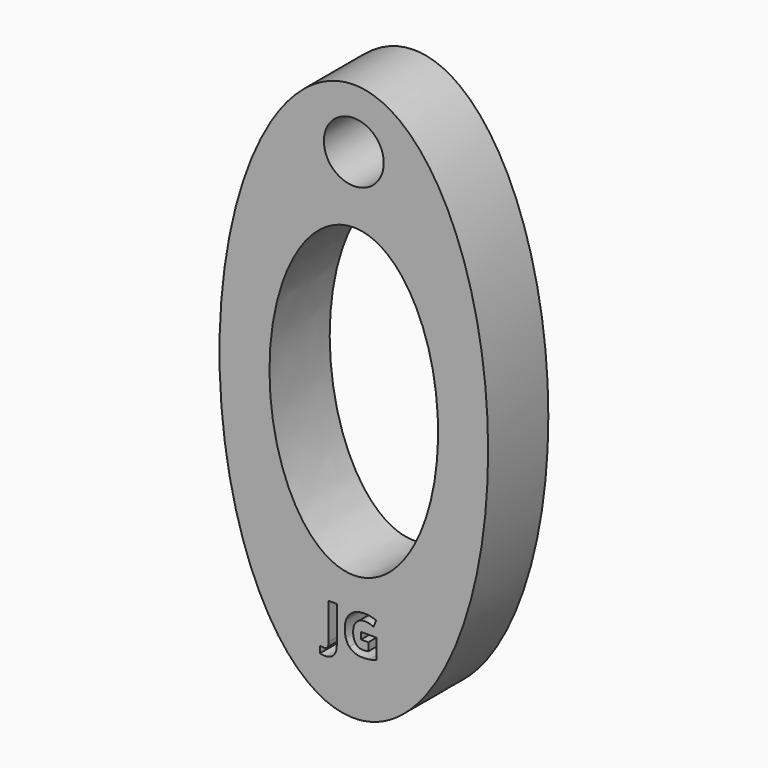
from build123d import *

# Parameters (mm, degrees)
F0_R     = 4.5457502189
F1_DEPTH = 11.43


with BuildPart() as f1:
    # F0 (on Front) → F1 (new body)
    with BuildSketch(Plane.XZ):
        with BuildLine():
            add(Edge.make_bspline(
                [(0, 42.3479527235), (-35.330022789, 42.3479527235), (-17.6650113945, -21.1739763618), (0, -84.695905447), (17.6650113945, -21.1739763618), (35.330022789, 42.3479527235), (0, 42.3479527235)],
                knots=[0, 0, 0, 2.0943951024, 2.0943951024, 4.1887902048, 4.1887902048, 6.2831853072, 6.2831853072, 6.2831853072], degree=2, weights=[1, 0.5, 1, 0.5, 1, 0.5, 1]))
        make_face()
        with BuildLine():
            add(Edge.make_bspline(
                [(-3.0432494103, -34.9144779167), (-3.5092350239, -35.4486720947), (-4.4220823543, -35.4486720947)],
                knots=[0, 0, 0, 1, 1, 1], degree=2))
            add(Edge.make_bspline(
                [(-4.4220823543, -35.4486720947), (-4.8402582264, -35.4486720947), (-5.1513402775, -35.3607021704)],
                knots=[0, 0, 0, 1, 1, 1], degree=2))
            Line((-5.1513402775, -35.3607021704), (-5.1513402775, -34.3331114604))
            add(Edge.make_bspline(
                [(-5.1513402775, -34.3331114604), (-4.8326086677, -34.4121568996), (-4.5699738213, -34.4121568996)],
                knots=[0, 0, 0, 1, 1, 1], degree=2))
            add(Edge.make_bspline(
                [(-4.5699738213, -34.4121568996), (-4.1632722872, -34.4121568996), (-3.9879699018, -34.1590840015)],
                knots=[0, 0, 0, 1, 1, 1], degree=2))
            add(Edge.make_bspline(
                [(-3.9879699018, -34.1590840015), (-3.8126675164, -33.9060111033), (-3.8126675164, -33.3679921459)],
                knots=[0, 0, 0, 1, 1, 1], degree=2))
            Line((-3.8126675164, -33.3679921459), (-3.8126675164, -27.9100320598))
            Line((-3.8126675164, -27.9100320598), (-2.5772637968, -27.9100320598))
            Line((-2.5772637968, -27.9100320598), (-2.5772637968, -33.3603425873))
            add(Edge.make_bspline(
                [(-2.5772637968, -33.3603425873), (-2.5772637968, -34.3802837387), (-3.0432494103, -34.9144779167)],
                knots=[0, 0, 0, 1, 1, 1], degree=2))
        make_face(mode=Mode.SUBTRACT)
        with BuildLine():
            Line((1.0996240538, -31.4925753539), (1.0996240538, -30.4637097175))
            Line((1.0996240538, -30.4637097175), (3.411065688, -30.4637097175))
            Line((3.411065688, -30.4637097175), (3.411065688, -33.4840104519))
            add(Edge.make_bspline(
                [(3.411065688, -33.4840104519), (2.8488231284, -33.6675998591), (2.3528767435, -33.7415455926)],
                knots=[0, 0, 0, 1, 1, 1], degree=2))
            add(Edge.make_bspline(
                [(2.3528767435, -33.7415455926), (1.8569303587, -33.8154913261), (1.3393102244, -33.8154913261)],
                knots=[0, 0, 0, 1, 1, 1], degree=2))
            add(Edge.make_bspline(
                [(1.3393102244, -33.8154913261), (0.0210362862, -33.8154913261), (-0.6744360863, -33.0403360511)],
                knots=[0, 0, 0, 1, 1, 1], degree=2))
            add(Edge.make_bspline(
                [(-0.6744360863, -33.0403360511), (-1.3699084589, -32.265180776), (-1.3699084589, -30.8143144883)],
                knots=[0, 0, 0, 1, 1, 1], degree=2))
            add(Edge.make_bspline(
                [(-1.3699084589, -30.8143144883), (-1.3699084589, -29.4042458465), (-0.5628800229, -28.6157038439)],
                knots=[0, 0, 0, 1, 1, 1], degree=2))
            add(Edge.make_bspline(
                [(-0.5628800229, -28.6157038439), (0.2441484131, -27.8271618412), (1.6733409514, -27.8271618412)],
                knots=[0, 0, 0, 1, 1, 1], degree=2))
            add(Edge.make_bspline(
                [(1.6733409514, -27.8271618412), (2.5708891646, -27.8271618412), (3.4034161294, -28.1854161706)],
                knots=[0, 0, 0, 1, 1, 1], degree=2))
            Line((3.4034161294, -28.1854161706), (2.992889816, -29.173484161))
            add(Edge.make_bspline(
                [(2.992889816, -29.173484161), (2.3554265964, -28.8547525512), (1.6656913928, -28.8547525512)],
                knots=[0, 0, 0, 1, 1, 1], degree=2))
            add(Edge.make_bspline(
                [(1.6656913928, -28.8547525512), (0.865037589, -28.8547525512), (0.383115395, -29.3927715086)],
                knots=[0, 0, 0, 1, 1, 1], degree=2))
            add(Edge.make_bspline(
                [(0.383115395, -29.3927715086), (-0.098806799, -29.9307904659), (-0.098806799, -30.8385380906)],
                knots=[0, 0, 0, 1, 1, 1], degree=2))
            add(Edge.make_bspline(
                [(-0.098806799, -30.8385380906), (-0.098806799, -31.7870833613), (0.2894083017, -32.2868545255)],
                knots=[0, 0, 0, 1, 1, 1], degree=2))
            add(Edge.make_bspline(
                [(0.2894083017, -32.2868545255), (0.6776234024, -32.7866256897), (1.4183556636, -32.7866256897)],
                knots=[0, 0, 0, 1, 1, 1], degree=2))
            add(Edge.make_bspline(
                [(1.4183556636, -32.7866256897), (1.8059333011, -32.7866256897), (2.2037103501, -32.7075802504)],
                knots=[0, 0, 0, 1, 1, 1], degree=2))
            Line((2.2037103501, -32.7075802504), (2.2037103501, -31.4925753539))
            Line((2.2037103501, -31.4925753539), (1.0996240538, -31.4925753539))
        make_face(mode=Mode.SUBTRACT)
        with BuildLine():
            add(Edge.make_bspline(
                [(0, 23.2546553016), (-22.1790441059, 23.2546553016), (-11.089522053, -11.6273276508), (0, -46.5093106031), (11.089522053, -11.6273276508), (22.1790441059, 23.2546553016), (0, 23.2546553016)],
                knots=[0, 0, 0, 2.0943951024, 2.0943951024, 4.1887902048, 4.1887902048, 6.2831853072, 6.2831853072, 6.2831853072], degree=2, weights=[1, 0.5, 1, 0.5, 1, 0.5, 1]))
        make_face(mode=Mode.SUBTRACT)
        with Locations((0, 33.334877342)):
            Circle(F0_R, mode=Mode.SUBTRACT)
    extrude(amount=F1_DEPTH)


solid = f1.part
